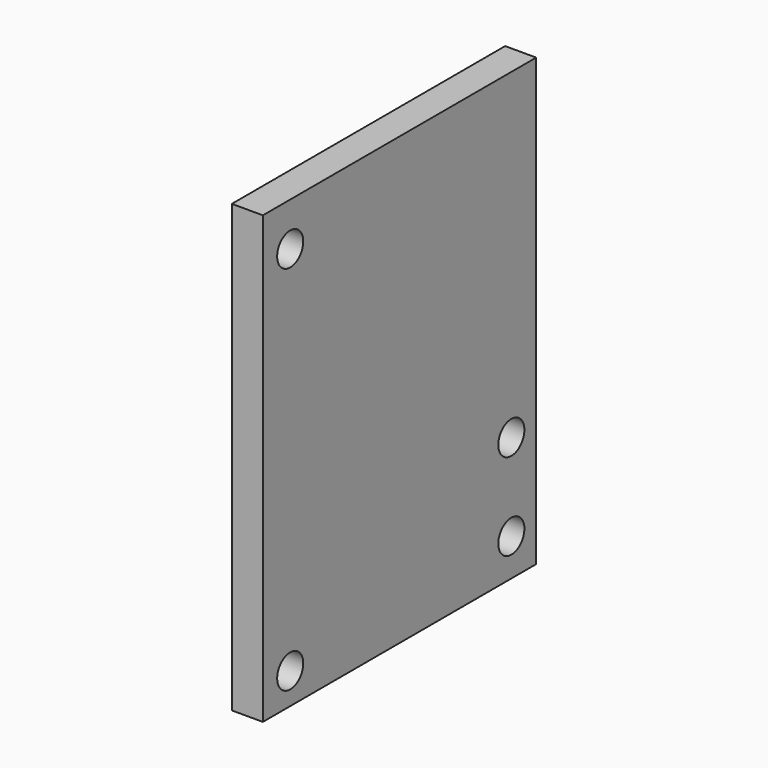
from build123d import *

# Parameters (mm, degrees)
F0_W     = 110
F0_H     = 143.6
F0_R     = 5.25
F1_DEPTH = 10


with BuildPart() as f1:
    # F0 (on Right) → F1 (new body)
    with BuildSketch(Plane.YZ):
        with Locations((-55, 71.8)):
            Rectangle(F0_W, F0_H)
        with Locations((-99, 10)):
            Circle(F0_R, mode=Mode.SUBTRACT)
        with Locations((-10, 12)):
            Circle(F0_R, mode=Mode.SUBTRACT)
        with Locations((-10, 40)):
            Circle(F0_R, mode=Mode.SUBTRACT)
        with Locations((-99, 129.6)):
            Circle(F0_R, mode=Mode.SUBTRACT)
    extrude(amount=F1_DEPTH)


solid = f1.part
